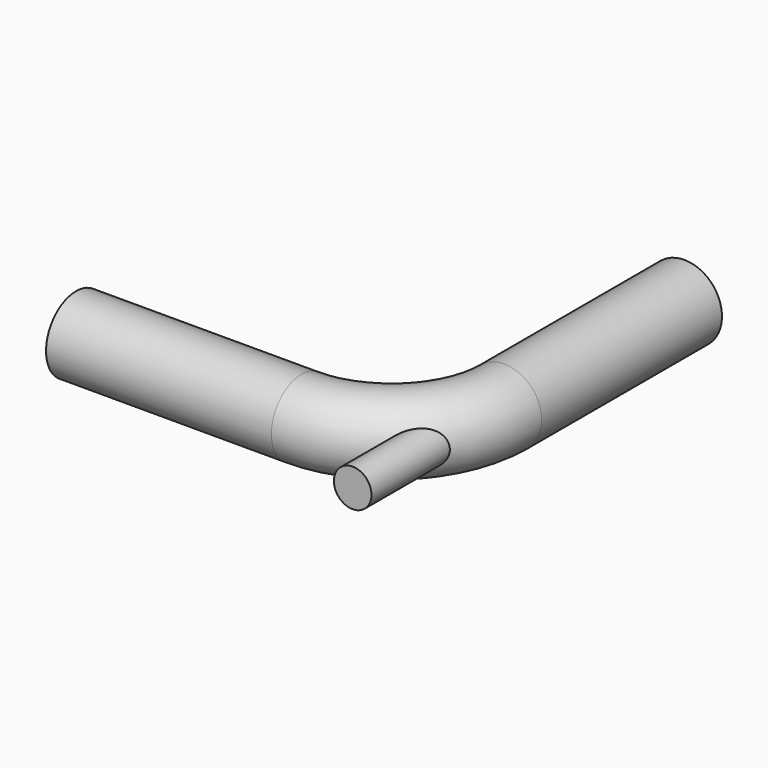
from build123d import *

# Parameters (mm, degrees)
F1_R     = 500
F4_R     = 250
F5_DEPTH = 2212


with BuildPart() as f2:
    # F2: sweep along a path in F0
    with BuildLine(Plane.XY) as f2_path:
        Line((0, 0), (3000, 0))
        ThreePointArc((3000, 0), (4060.660172, 439.339828), (4500, 1500))
        Line((4500, 1500), (4500, 4500))
    # F1 (on Right) → F2 (sweep)
    with BuildSketch(Plane.YZ):
        Circle(F1_R)
    sweep(path=f2_path.line)

    # F4 (on face) → F5 (join)
    with BuildSketch(Plane.XZ.offset(914.213562)):
        with Locations((4414.213562, 0)):
            Circle(F4_R)
    extrude(amount=-F5_DEPTH)


solid = f2.part
